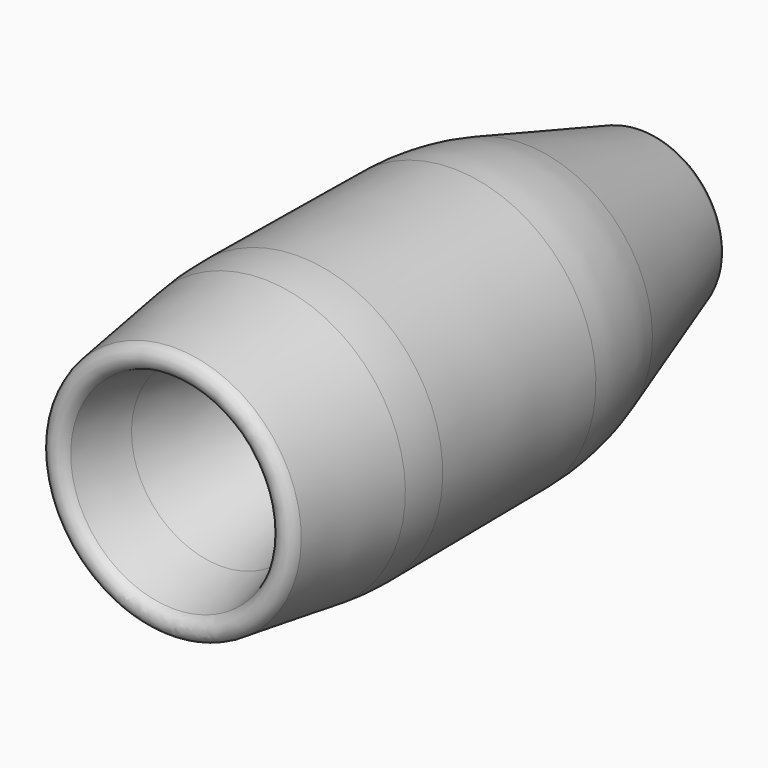
from build123d import *

# Parameters (mm, degrees)
F2_R = 50
F3_R = 1.25
F4_R = 2


with BuildPart() as f1:
    # F0 (on Right) → F1 (revolve)
    with BuildSketch(Plane.YZ):
        Polygon((-22.895174, -15), (-43.220146, -19.782346), (-10.310824, -24.317097), (33.481894, -23.928402), (66.007544, -13.446839), (65.49473, -11), (33.481894, -17.709318), (18.333343, -11), (-1.676504, -11), (-5.895174, -11), align=None)
        Polygon((-1.897812, -10.059444), (-5.895174, -11), (-1.676504, -11), align=None)
    revolve(axis=Axis((0, 6.931687, 0), (0, 1, 0)))

    # F2
    f2_edges = [f1.edges().sort_by_distance(p)[0] for p in [
        (0, -10.310824, 24.317097),
        (0, 33.481894, 23.928402),
    ]]
    fillet(f2_edges, radius=F2_R)

    # F3
    f3_edges = [f1.edges().sort_by_distance(p)[0] for p in [
        (0, 66.007544, 13.446839),
        (0, 65.49473, 11),
        (0, 65.751137, -12.22342),
    ]]
    fillet(f3_edges, radius=F3_R)

    # F4
    f4_edges = [f1.edges().sort_by_distance(p)[0] for p in [
        (0, -43.220146, 19.782346),
    ]]
    fillet(f4_edges, radius=F4_R)


solid = f1.part
